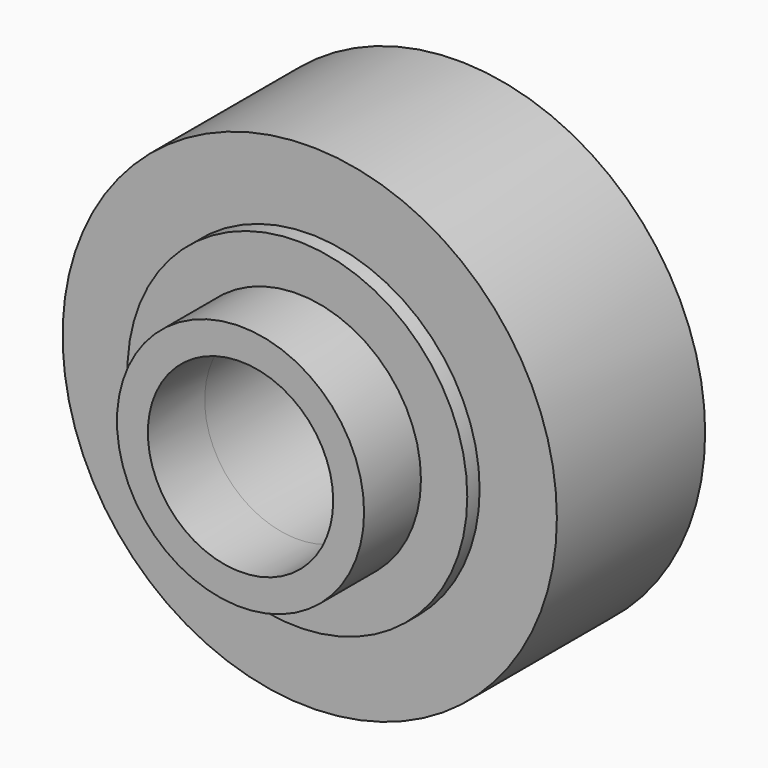
from build123d import *

# Parameters (mm, degrees)
F0_R      = 8
F1_DEPTH  = 6
F2_R      = 5.5
F3_DEPTH  = 0.5
F4_R      = 4
F4_R_2    = 3
F5_DEPTH  = 2.3
F5_FACE_R = 3
F6_DEPTH  = 6.501


with BuildPart() as f1:
    # F0 (on Front) → F1 (new body)
    with BuildSketch(Plane.XZ):
        Circle(F0_R)
    extrude(amount=F1_DEPTH)

    # F2 (on face) → F3 (join)
    with BuildSketch(Plane.XZ.offset(6)):
        Circle(F2_R)
    extrude(amount=F3_DEPTH)

    # F4 (on face) → F5 (join)
    with BuildSketch(Plane.XZ.offset(6.5)):
        Circle(F4_R)
        Circle(F4_R_2, mode=Mode.SUBTRACT)
    extrude(amount=F5_DEPTH)

    # F5_face (on face) → F6 (cut, through all)
    with BuildSketch(Plane.XZ.offset(6.5)):
        Circle(F5_FACE_R)
    extrude(amount=-F6_DEPTH, mode=Mode.SUBTRACT)


solid = f1.part
